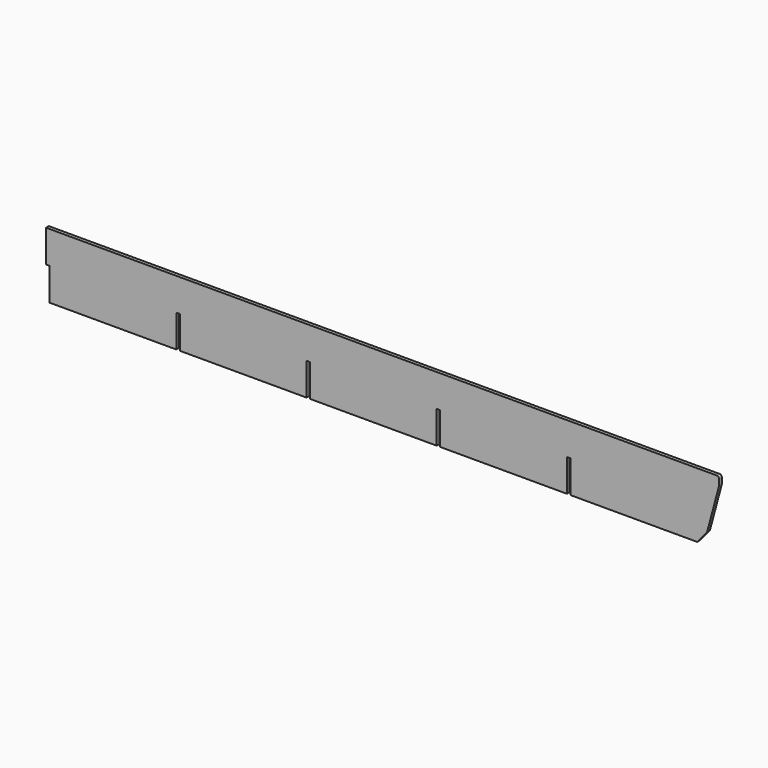
from build123d import *

# Parameters (mm, degrees)
F1_DEPTH = 1.5


with BuildPart() as f1:
    # F0 (on Front) → F1 (new body, symmetric)
    with BuildSketch(Plane.XZ):
        with BuildLine():
            Line((-118.194595, -20.131947), (-12.594595, -20.131947))
            Line((-12.594595, -20.131947), (-8.794595, -20.131947))
            Line((-8.794595, -20.131947), (-8.794595, 7.868053))
            Line((-8.794595, 7.868053), (-5.794595, 7.868053))
            Line((-5.794595, 7.868053), (-5.794595, -20.131947))
            Line((-5.794595, -20.131947), (103.605405, -20.131947))
            Line((103.605405, -20.131947), (103.605405, 7.868053))
            Line((103.605405, 7.868053), (106.605405, 7.868053))
            Line((106.605405, 7.868053), (106.605405, -20.131947))
            Line((106.605405, -20.131947), (216.005405, -20.131947))
            Line((216.005405, -20.131947), (216.005405, 7.868053))
            Line((216.005405, 7.868053), (219.005405, 7.868053))
            Line((219.005405, 7.868053), (219.005405, -20.131947))
            Line((219.005405, -20.131947), (328.405405, -20.131947))
            Line((328.405405, -20.131947), (336.602465, -10.363072))
            ThreePointArc((336.602465, -10.363072), (336.965365, -9.819955), (337.20211, -9.211166))
            Line((337.20211, -9.211166), (347.405405, 28.868053))
            Line((347.405405, 28.868053), (347.405405, 33.868053))
            ThreePointArc((347.405405, 33.868053), (346.819619, 35.282266), (345.405405, 35.868053))
            Line((345.405405, 35.868053), (-12.594595, 35.868053))
            Line((-12.594595, 35.868053), (-233.594595, 35.868053))
            Line((-233.594595, 35.868053), (-233.594595, 7.868053))
            Line((-233.594595, 7.868053), (-230.594595, 7.868053))
            Line((-230.594595, 7.868053), (-230.594595, -20.131947))
            Line((-230.594595, -20.131947), (-121.194595, -20.131947))
            Line((-121.194595, -20.131947), (-121.194595, 7.868053))
            Line((-121.194595, 7.868053), (-118.194595, 7.868053))
            Line((-118.194595, 7.868053), (-118.194595, -20.131947))
        make_face()
    extrude(amount=F1_DEPTH, both=True)


solid = f1.part
